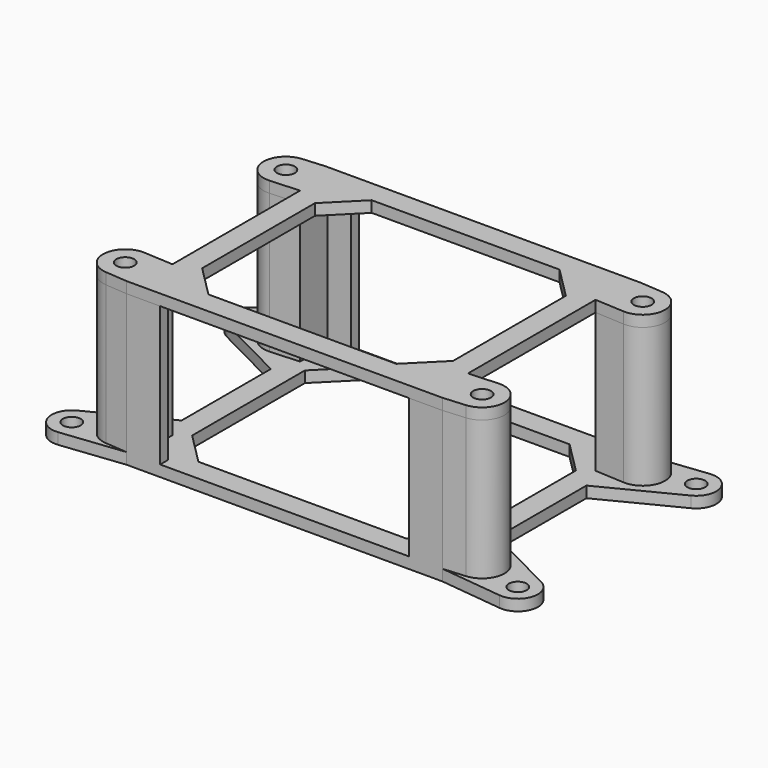
from build123d import *

# Parameters (mm, degrees)
SKETCH005_R                = 1.6
PAD_DEPTH                  = 2
SKETCH_R                   = 2
PAD001_DEPTH               = 25
SKETCH005_MIRRORED_2_R     = 1.6
PAD_MIRRORED_2_DEPTH       = 2
SKETCH_MIRRORED_2_R        = 2
PAD001_MIRRORED_2_DEPTH    = 25
SKETCH006_R                = 1.6
PAD002_DEPTH               = 2
SKETCH006_MIRRORED002_2_R  = 1.6
PAD002_MIRRORED002_2_DEPTH = 2


with BuildPart() as body_base:
    # Sketch005 → Pad (new body)
    with BuildSketch(Plane.XY):
        with BuildLine():
            Line((28.3, 22.3), (0, 22.3))
            Line((0, 22.3), (0, 18.3))
            Line((0, 18.3), (18.643146, 18.3))
            Line((18.643146, 18.3), (24.3, 12.643146))
            Line((24.3, 12.643146), (24.3, 0))
            Line((24.3, 0), (28.3, 0))
            Line((28.3, 0), (28.3, 10))
            Line((28.3, 10), (41.634018, 16.792199))
            ThreePointArc((41.634018, 16.792199), (43.447755, 21.03585), (39.595519, 23.577205))
            Line((39.595519, 23.577205), (28.3, 22.3))
        make_face()
        with Locations((40, 20)):
            Circle(SKETCH005_R, mode=Mode.SUBTRACT)
    pad = extrude(amount=-PAD_DEPTH)

    # Sketch (on Face12 of Pad) → Pad001 (join)
    with BuildSketch(Plane.XY):
        with BuildLine():
            Line((22.3, 22.3), (28.3, 22.3))
            Line((32.310314, 21.987945), (28.3, 22.3))
            ThreePointArc((31.777658, 14.006184), (35.991123, 17.733656), (32.310314, 21.987945))
            Line((26.5, 14.3), (31.777658, 14.006184))
            Line((26.5, 14.3), (26.5, 20.500007))
            Line((26.5, 20.500007), (22.30486, 20.500007))
            Line((22.30486, 20.500007), (22.3, 22.3))
        make_face()
        with Locations((32, 18)):
            Circle(SKETCH_R, mode=Mode.SUBTRACT)
    pad001 = extrude(amount=PAD001_DEPTH)

    # Sketch005 Mirrored 2 → Pad Mirrored 2 (add)
    with BuildSketch(Plane(origin=(0, 0, 0), x_dir=(-1, 0, 0), z_dir=(0, 0, -1))):
        with BuildLine():
            Line((28.3, 22.3), (0, 22.3))
            Line((0, 22.3), (0, 18.3))
            Line((0, 18.3), (18.643146, 18.3))
            Line((18.643146, 18.3), (24.3, 12.643146))
            Line((24.3, 12.643146), (24.3, 0))
            Line((24.3, 0), (28.3, 0))
            Line((28.3, 0), (28.3, 10))
            Line((28.3, 10), (41.634018, 16.792199))
            ThreePointArc((41.634018, 16.792199), (43.447755, 21.03585), (39.595519, 23.577205))
            Line((39.595519, 23.577205), (28.3, 22.3))
        make_face()
        with Locations((40, 20)):
            Circle(SKETCH005_MIRRORED_2_R, mode=Mode.SUBTRACT)
    pad_mirrored_2 = extrude(amount=PAD_MIRRORED_2_DEPTH)

    # Sketch Mirrored 2 → Pad001 Mirrored 2 (add)
    with BuildSketch(Plane(origin=(0, 0, 0), x_dir=(-1, 0, 0), z_dir=(0, 0, -1))):
        with BuildLine():
            Line((22.3, 22.3), (28.3, 22.3))
            Line((32.310314, 21.987945), (28.3, 22.3))
            ThreePointArc((31.777658, 14.006184), (35.991123, 17.733656), (32.310314, 21.987945))
            Line((26.5, 14.3), (31.777658, 14.006184))
            Line((26.5, 14.3), (26.5, 20.500007))
            Line((26.5, 20.500007), (22.30486, 20.500007))
            Line((22.30486, 20.500007), (22.3, 22.3))
        make_face()
        with Locations((32, 18)):
            Circle(SKETCH_MIRRORED_2_R, mode=Mode.SUBTRACT)
    pad001_mirrored_2 = extrude(amount=-PAD001_MIRRORED_2_DEPTH)

    # Mirrored001: Pad, Pad001, Pad Mirrored 2, Pad001 Mirrored 2 across Sketch005 H_Axis
    add(pad.mirror(Plane.ZX))
    add(pad001.mirror(Plane.ZX))
    add(pad_mirrored_2.mirror(Plane.ZX))
    add(pad001_mirrored_2.mirror(Plane.ZX))


with BuildPart() as body_lid:
    # Sketch006 → Pad002 (new body)
    with BuildSketch(Plane.XY):
        with BuildLine():
            Line((26.5, 22.3), (0, 22.3))
            Line((0, 22.3), (0, 18.3))
            Line((0, 18.3), (16.843146, 18.3))
            Line((16.843146, 18.3), (22.5, 12.643146))
            Line((22.5, 12.643146), (22.5, 0))
            Line((26.5, 0), (22.5, 0))
            Line((26.5, 14.3), (26.5, 0))
            Line((26.5, 14.3), (31.777658, 14.006184))
            ThreePointArc((31.777658, 14.006184), (35.991123, 17.733656), (32.310314, 21.987945))
            Line((32.310314, 21.987945), (28.3, 22.3))
            Line((26.5, 22.3), (28.3, 22.3))
        make_face()
        with Locations((32, 18)):
            Circle(SKETCH006_R, mode=Mode.SUBTRACT)
    pad002 = extrude(amount=PAD002_DEPTH)

    # Sketch006 Mirrored002 2 → Pad002 Mirrored002 2 (add)
    with BuildSketch(Plane(origin=(0, 0, 0), x_dir=(-1, 0, 0), z_dir=(0, 0, -1))):
        with BuildLine():
            Line((26.5, 22.3), (0, 22.3))
            Line((0, 22.3), (0, 18.3))
            Line((0, 18.3), (16.843146, 18.3))
            Line((16.843146, 18.3), (22.5, 12.643146))
            Line((22.5, 12.643146), (22.5, 0))
            Line((26.5, 0), (22.5, 0))
            Line((26.5, 14.3), (26.5, 0))
            Line((26.5, 14.3), (31.777658, 14.006184))
            ThreePointArc((31.777658, 14.006184), (35.991123, 17.733656), (32.310314, 21.987945))
            Line((32.310314, 21.987945), (28.3, 22.3))
            Line((26.5, 22.3), (28.3, 22.3))
        make_face()
        with Locations((32, 18)):
            Circle(SKETCH006_MIRRORED002_2_R, mode=Mode.SUBTRACT)
    pad002_mirrored002_2 = extrude(amount=-PAD002_MIRRORED002_2_DEPTH)

    # Mirrored003: Pad002, Pad002 Mirrored002 2 across Sketch006 H_Axis
    add(pad002.mirror(Plane.ZX))
    add(pad002_mirrored002_2.mirror(Plane.ZX))


with BuildPart() as body_lid_1:
    # Body placement: moved
    add(body_lid.part.moved(Location((0, 0, 25))))


solid = Compound([body_base.part, body_lid_1.part])
